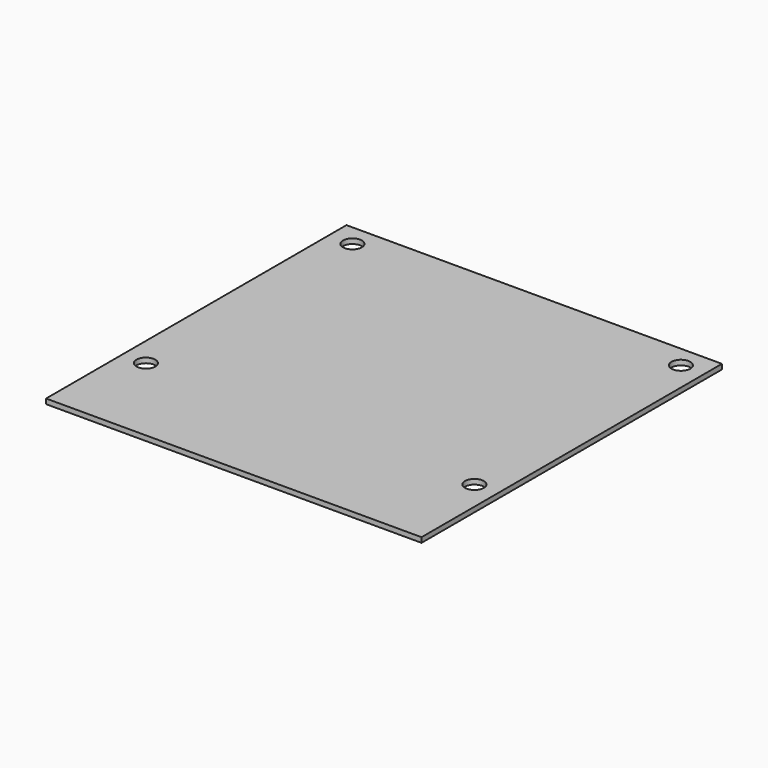
from build123d import *

# Parameters (mm, degrees)
CYLINDER_R     = 3
CYLINDER_DEPTH = 10
BOX_W          = 120
BOX_H          = 120
BOX_DEPTH      = 1.6


with BuildPart() as cylinder:
    # Cylinder → Cylinder (new body)
    with BuildSketch(Plane(origin=(7.5, 30.5, -5), x_dir=(1, 0, 0), z_dir=(0, 0, 1))):
        Circle(CYLINDER_R)
    extrude(amount=CYLINDER_DEPTH)


with BuildPart() as clone_of_cylinder001:
    # Clone001 base: copy of Cylinder
    add(cylinder.part)


with BuildPart() as clone_of_cylinder001_1:
    # Clone001 placement: moved
    add(clone_of_cylinder001.part.moved(Location((105, 0, 0))))


with BuildPart() as clone_of_cylinder:
    # Clone base: copy of Cylinder
    add(cylinder.part)


with BuildPart() as clone_of_cylinder_1:
    # Clone placement: moved
    add(clone_of_cylinder.part.moved(Location((0, 82.5, 0))))


with BuildPart() as clone_of_cylinder002:
    # Clone002 base: copy of Cylinder
    add(cylinder.part)


with BuildPart() as clone_of_cylinder002_1:
    # Clone002 placement: moved
    add(clone_of_cylinder002.part.moved(Location((105, 82.5, 0))))


with BuildPart() as fusion:
    # Fusion base: copy of Cylinder
    add(cylinder.part)

    # Fusion: union Clone of Cylinder001, Clone of Cylinder, Clone of Cylinder002
    add(clone_of_cylinder001_1.part)
    add(clone_of_cylinder_1.part)
    add(clone_of_cylinder002_1.part)


with BuildPart() as board:
    # Box → Box (new body)
    with BuildSketch(Plane.XY):
        with Locations((60, 60)):
            Rectangle(BOX_W, BOX_H)
    extrude(amount=BOX_DEPTH)

    # Cut: cut Fusion
    add(fusion.part, mode=Mode.SUBTRACT)


solid = board.part
